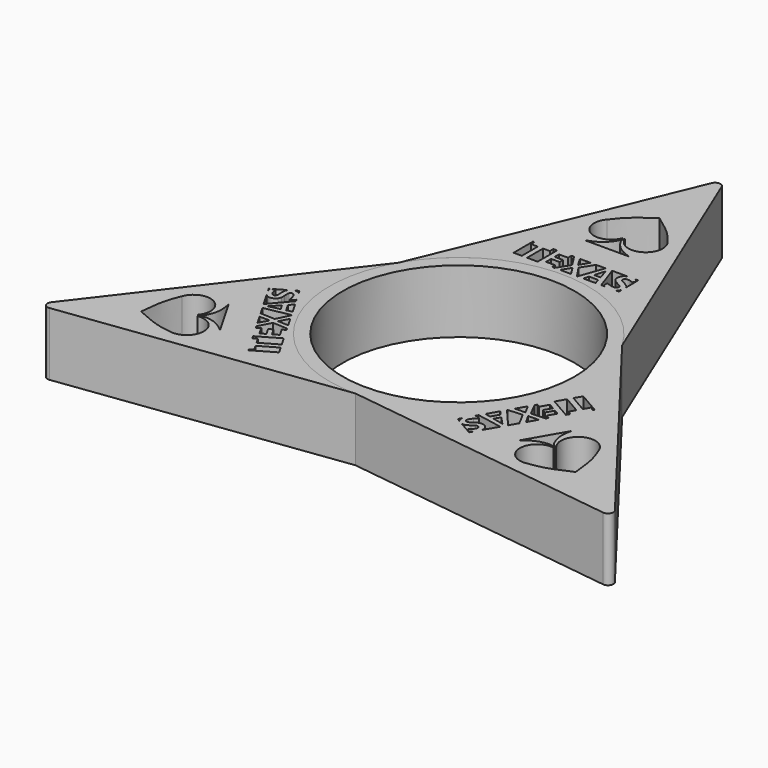
from build123d import *

# Parameters (mm, degrees)
F0_R     = 11
F1_DEPTH = 6
F3_DEPTH = 6.0010001
F4_W     = 0.127
F4_H     = 2.307837829
F5_DEPTH = 6.0010001
F6_COUNT = 3


with BuildPart() as f1:
    # F0 (on Top) → F1 (new body)
    with BuildSketch(Plane.XY):
        with BuildLine():
            ThreePointArc((-10.6088111964, 6.125), (-3.1705333025, -11.832591372), (12.25, 0))
            ThreePointArc((12.25, 0), (11.832591372, 3.1705333025), (10.6088111964, 6.125))
            ThreePointArc((10.6088111964, 6.125), (0, 12.25), (-10.6088111964, 6.125))
        make_face()
        Circle(F0_R, mode=Mode.SUBTRACT)
        with BuildLine():
            ThreePointArc((-10.6088111964, 6.125), (0, 12.25), (10.6088111964, 6.125))
            Line((10.6088111964, 6.125), (0.4693308025, 30.6038710822))
            ThreePointArc((0.4693308025, 30.6038710822), (0, 30.9174678986), (-0.4693308025, 30.6038710822))
            Line((-0.4693308025, 30.6038710822), (-10.6088111964, 6.125))
        make_face()
        with BuildLine():
            ThreePointArc((-0.1151212782, 19.5589698851), (-2.4569782322, 18.734529011), (-2.8773851227, 21.1814157665))
            add(Edge.make_bspline(
                [(0, 23.8041831014), (-0.1745806124, 23.6832880861), (-0.5877580756, 23.3971675654), (-1.6260052922, 22.5929849651), (-2.3301266333, 21.8832406514), (-2.7000689379, 21.4088127159), (-2.8773851227, 21.1814157665)],
                knots=[0, 0, 0, 0, 0.2132390697, 0.5046698866, 0.7625844764, 1, 1, 1, 1], degree=3))
            add(Edge.make_bspline(
                [(0, 23.8041831014), (0.1745806124, 23.6832880861), (0.5877580756, 23.3971675654), (1.6260052922, 22.5929849651), (2.3301266333, 21.8832406514), (2.7000689379, 21.4088127159), (2.8773851227, 21.1814157665)],
                knots=[0, 0, 0, 0, 0.2132390697, 0.5046698866, 0.7625844764, 1, 1, 1, 1], degree=3))
            ThreePointArc((2.8773851227, 21.1814157665), (2.4569782322, 18.734529011), (0.1151212782, 19.5589698851))
            add(Edge.make_bspline(
                [(0.1151212782, 19.5589698851), (0.0993174802, 19.5400862314), (0.0499955017, 19.4811523499), (0.0641407085, 19.0603422687), (0.5371028935, 18.4641977157), (0.872826867, 18.1481757612), (1.3850997398, 17.8270630861), (1.8494627144, 17.6563846496), (2.0983684808, 17.5648983568)],
                knots=[0, 0, 0, 0, 0.0704695678, 0.2199280512, 0.4326705664, 0.6001773874, 0.7856888699, 1, 1, 1, 1], degree=3))
            Line((2.0983684808, 17.5648983568), (0, 17.5648983568))
            Line((0, 17.5648983568), (-2.0983684808, 17.5648983568))
            add(Edge.make_bspline(
                [(-0.1151212782, 19.5589698851), (-0.0993174802, 19.5400862314), (-0.0499955017, 19.4811523499), (-0.0641407085, 19.0603422687), (-0.5371028935, 18.4641977157), (-0.872826867, 18.1481757612), (-1.3850997398, 17.8270630861), (-1.8494627144, 17.6563846496), (-2.0983684808, 17.5648983568)],
                knots=[0, 0, 0, 0, 0.0704695678, 0.2199280512, 0.4326705664, 0.6001773874, 0.7856888699, 1, 1, 1, 1], degree=3))
        make_face(mode=Mode.SUBTRACT)
    extrude(amount=F1_DEPTH)

    # F2 (on face) → F3 (cut, through all)
    with BuildSketch(Plane.XY.offset(6)):
        Polygon((-2.6629518816, 15.0053892285), (-3.0264010626, 15.0053892285), (-3.0264010626, 14.5914453321), (-3.6674778542, 14.5914453321), (-3.6674778542, 12.6975513995), (-2.6629518816, 12.6975513995), align=None)
        Polygon((-1.0553907289, 15.0053892285), (-1.3027316891, 15.0053892285), (-1.3027316891, 14.597649301), (-2.1619813888, 14.597649301), (-2.1619813888, 14.0791008962), (-1.3621863915, 14.0791008962), (-1.3621863915, 13.6686049506), (-2.1619813888, 13.6686049506), (-2.1619813888, 13.0595819986), (-1.3027316891, 13.0595819986), (-1.3027316891, 12.6975513995), (-1.074124972, 12.6975513995), (-0.3235385896, 13.8640299726), align=None)
        Polygon((0.5020378584, 15.0053892285), (-0.5028380965, 15.0053892285), (0.0042377699, 14.1582015003), align=None)
        Polygon((-0.0216121007, 13.5393555975), (-0.5389709307, 12.6975513995), (0.4962338845, 12.6975513995), align=None)
        Polygon((1.9292497342, 15.0053892285), (1.0411414721, 15.0053892285), (0.3015112822, 13.8366291097), (1.065183008, 12.6975513995), (1.1178847782, 12.6975513995), align=None)
        with BuildLine():
            Line((1.9367740982, 13.6282791524), (2.5520010192, 13.6282791524))
            add(Edge.make_bspline(
                [(2.5520010192, 13.6282791524), (2.3146992068, 14.3924013282), (2.2847133569, 14.4926988263)],
                knots=[0, 0, 0, 1, 1, 1], degree=2))
            add(Edge.make_bspline(
                [(2.2847133569, 14.4926988263), (2.2547275069, 14.5929963243), (2.2418025716, 14.6509000345)],
                knots=[0, 0, 0, 1, 1, 1], degree=2))
            add(Edge.make_bspline(
                [(2.2418025716, 14.6509000345), (2.1885518381, 14.4441010695), (1.9367740982, 13.6282791524)],
                knots=[0, 0, 0, 1, 1, 1], degree=2))
        make_face()
        Polygon((1.8106267295, 13.2084772534), (1.6551888089, 12.6975513995), (2.8273823395, 12.6975513995), (2.6719444189, 13.2084772534), align=None)
        with BuildLine():
            Line((4.057223166, 15.0053892285), (2.5502358799, 15.0053892285))
            Line((2.5502358799, 15.0053892285), (3.3646189325, 12.6975513995))
            Line((3.3646189325, 12.6975513995), (3.6744297908, 12.6975513995))
            add(Edge.make_bspline(
                [(3.6744297908, 12.6975513995), (3.6022538746, 12.7229841372), (3.5348131005, 12.7561045174)],
                knots=[0.7678878568, 0.7678878568, 0.7678878568, 1, 1, 1], degree=2))
            Line((3.5348131005, 12.7561045174), (3.5348131005, 13.2214021887))
            add(Edge.make_bspline(
                [(3.5348131005, 13.2214021887), (3.7736659051, 13.1143837243), (3.9393635758, 13.0709559417)],
                knots=[0, 0, 0, 1, 1, 1], degree=2))
            add(Edge.make_bspline(
                [(3.9393635758, 13.0709559417), (4.1050612466, 13.027528159), (4.2425825583, 13.027528159)],
                knots=[0, 0, 0, 1, 1, 1], degree=2))
            add(Edge.make_bspline(
                [(4.2425825583, 13.027528159), (4.4069877355, 13.027528159), (4.4951357944, 13.0903433446)],
                knots=[0, 0, 0, 1, 1, 1], degree=2))
            add(Edge.make_bspline(
                [(4.4951357944, 13.0903433446), (4.5832838532, 13.1531585303), (4.5832838532, 13.2777549067)],
                knots=[0, 0, 0, 1, 1, 1], degree=2))
            add(Edge.make_bspline(
                [(4.5832838532, 13.2777549067), (4.5832838532, 13.34703256), (4.5445090473, 13.4013172883)],
                knots=[0, 0, 0, 1, 1, 1], degree=2))
            add(Edge.make_bspline(
                [(4.5445090473, 13.4013172883), (4.5057342413, 13.4556020166), (4.4305111178, 13.5054922669)],
                knots=[0, 0, 0, 1, 1, 1], degree=2))
            add(Edge.make_bspline(
                [(4.4305111178, 13.5054922669), (4.3552879943, 13.5553825172), (4.1241901508, 13.6655029661)],
                knots=[0, 0, 0, 1, 1, 1], degree=2))
            add(Edge.make_bspline(
                [(4.1241901508, 13.6655029661), (3.9080852324, 13.7673514564), (3.7997742744, 13.8609279881)],
                knots=[0, 0, 0, 1, 1, 1], degree=2))
            add(Edge.make_bspline(
                [(3.7997742744, 13.8609279881), (3.6914633165, 13.9545045198), (3.6268386399, 14.0791008962)],
                knots=[0, 0, 0, 1, 1, 1], degree=2))
            add(Edge.make_bspline(
                [(3.6268386399, 14.0791008962), (3.5622139634, 14.2036972726), (3.5622139634, 14.3696534421)],
                knots=[0, 0, 0, 1, 1, 1], degree=2))
            add(Edge.make_bspline(
                [(3.5622139634, 14.3696534421), (3.5622139634, 14.6834708715), (3.7746998999, 14.862610475)],
                knots=[0, 0, 0, 1, 1, 1], degree=2))
            add(Edge.make_bspline(
                [(3.7746998999, 14.862610475), (3.8914550999, 14.9610427786), (4.057223166, 15.0053892285)],
                knots=[0, 0, 0, 0.5494725998, 0.5494725998, 0.5494725998], degree=2))
        make_face()
        with BuildLine():
            Line((5.037932191, 13.5326101138), (5.037932191, 14.8150745281))
            Line((5.037932191, 14.8150745281), (4.9017542594, 14.4859778599))
            add(Edge.make_bspline(
                [(4.9017542594, 14.4859778599), (4.7125332064, 14.5635274718), (4.5889708247, 14.5942888178)],
                knots=[0, 0, 0, 1, 1, 1], degree=2))
            add(Edge.make_bspline(
                [(4.5889708247, 14.5942888178), (4.4654084431, 14.6250501639), (4.3459820408, 14.6250501639)],
                knots=[0, 0, 0, 1, 1, 1], degree=2))
            add(Edge.make_bspline(
                [(4.3459820408, 14.6250501639), (4.2038077524, 14.6250501639), (4.1278091327, 14.5588744951)],
                knots=[0, 0, 0, 1, 1, 1], degree=2))
            add(Edge.make_bspline(
                [(4.1278091327, 14.5588744951), (4.0518105131, 14.4926988263), (4.0518105131, 14.3861973593)],
                knots=[0, 0, 0, 1, 1, 1], degree=2))
            add(Edge.make_bspline(
                [(4.0518105131, 14.3861973593), (4.0518105131, 14.3200216905), (4.0825718591, 14.2706484376)],
                knots=[0, 0, 0, 1, 1, 1], degree=2))
            add(Edge.make_bspline(
                [(4.0825718591, 14.2706484376), (4.1133332052, 14.2212751847), (4.1802843701, 14.1752624149)],
                knots=[0, 0, 0, 1, 1, 1], degree=2))
            add(Edge.make_bspline(
                [(4.1802843701, 14.1752624149), (4.247235535, 14.1292496452), (4.4974622827, 14.0098232429)],
                knots=[0, 0, 0, 1, 1, 1], degree=2))
            add(Edge.make_bspline(
                [(4.4974622827, 14.0098232429), (4.8288576242, 13.8511050372), (4.9516445097, 13.6921283329)],
                knots=[0, 0, 0, 1, 1, 1], degree=2))
            add(Edge.make_bspline(
                [(4.9516445097, 13.6921283329), (5.0074864656, 13.6198276952), (5.037932191, 13.5326101138)],
                knots=[0, 0, 0, 0.454787624, 0.454787624, 0.454787624], degree=2))
        make_face()
        with BuildLine():
            add(Edge.make_bspline(
                [(4.8441090479, 12.7977228091), (4.7694042785, 12.7379422249), (4.6757992535, 12.6975513995)],
                knots=[0, 0, 0, 0.3243487668, 0.3243487668, 0.3243487668], degree=2))
            Line((4.6757992535, 12.6975513995), (5.037932191, 12.6975513995))
            Line((5.037932191, 12.6975513995), (5.037932191, 13.0687698778))
            add(Edge.make_bspline(
                [(5.037932191, 13.0687698778), (4.9827439785, 12.9086618726), (4.8441090479, 12.7977228091)],
                knots=[0.3980830245, 0.3980830245, 0.3980830245, 1, 1, 1], degree=2))
        make_face()
        with BuildLine():
            Line((5.037932191, 15.0053892285), (4.6847636265, 15.0053892285))
            add(Edge.make_bspline(
                [(4.6847636265, 15.0053892285), (4.6990968268, 15.002012551), (4.7133087025, 14.9983222958)],
                knots=[0.9150254754, 0.9150254754, 0.9150254754, 1, 1, 1], degree=2))
            add(Edge.make_bspline(
                [(4.7133087025, 14.9983222958), (4.8690112804, 14.9578925692), (5.037932191, 14.8865453862)],
                knots=[0, 0, 0, 0.9309645597, 0.9309645597, 0.9309645597], degree=2))
            Line((5.037932191, 14.8865453862), (5.037932191, 15.0053892285))
        make_face()
        Polygon((-4.810042136, 15.0053892285), (-4.8230467364, 15.0053892285), (-4.8230467364, 12.6975513995), (-4.168448347, 12.6975513995), (-4.168448347, 14.5914453321), (-4.810042136, 14.5914453321), align=None)
    extrude(amount=-F3_DEPTH, mode=Mode.SUBTRACT)

    # F4 (on face) → F5 (cut, through all)
    with BuildSketch(Plane.XY.offset(6)):
        with Locations((-4.8865467364, 13.851470314)):
            Rectangle(F4_W, F4_H)
    extrude(amount=-F5_DEPTH, mode=Mode.SUBTRACT)


with BuildPart() as f6_1:
    # F6: instance of F1
    add(f1.part.rotate(Axis((0, 0, 6), (0, 0, 1)), 1 * 360 / F6_COUNT))


with BuildPart() as f6_2:
    # F6: instance of F1
    add(f1.part.rotate(Axis((0, 0, 6), (0, 0, 1)), 2 * 360 / F6_COUNT))


solid = Compound([f1.part, f6_1.part, f6_2.part])
